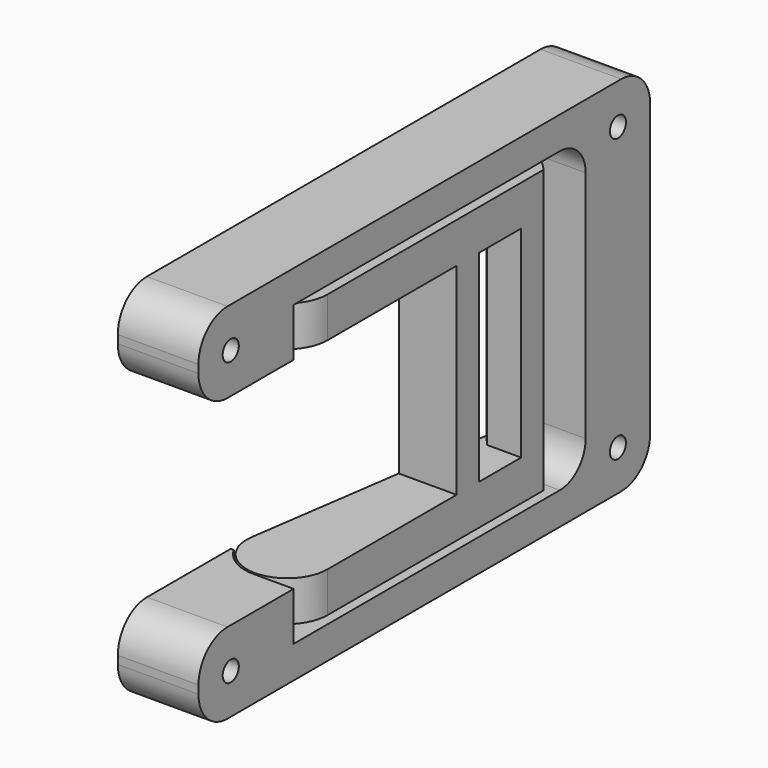
from build123d import *

# Parameters (mm, degrees)
PAD_DEPTH        = 17.5
SKETCH001_W      = 40
SKETCH001_H      = 25
SKETCH001_W_2    = 5
POCKET_DEPTH     = 10
CHAMFER_SIZE     = 1.5
PAD001_DEPTH     = 5
POCKET001_DEPTH  = 18.5
HOLE_D           = 2.5
HOLE_DEPTH       = 25
HOLE_CSINK_D     = 5
HOLE_CSINK_ANGLE = 90
FILLET_R         = 4.5
FILLET001_R      = 4


with BuildPart() as body:
    # Sketch → Pad (new body, symmetric)
    with BuildSketch(Plane.XY):
        with BuildLine():
            Line((5, 0), (5, 35))
            Line((5, 35), (0, 35))
            Line((0, 35), (-4.9487165931, 0.7142857143))
            ThreePointArc((-4.9487165931, 0.7142857143), (-0.3580621697, -4.9871626686), (5, 0))
        make_face()
    extrude(amount=PAD_DEPTH, both=True)

    # Sketch001 (on Face1 of Pad) → Pocket (cut, symmetric)
    with BuildSketch(Plane.YZ.offset(5)):
        Rectangle(SKETCH001_W, SKETCH001_H)
        with Locations((27.5, 0)):
            Rectangle(SKETCH001_W_2, SKETCH001_H)
    extrude(amount=POCKET_DEPTH, both=True, mode=Mode.SUBTRACT)

    # Chamfer
    chamfer_edges = [body.edges().sort_by_distance(p)[0] for p in [
        (5, 25, 0),
        (5, 35, 0),
        (0, 35, 0),
        (-0.721688, 30, 0),
    ]]
    chamfer(chamfer_edges, length=CHAMFER_SIZE)


with BuildPart() as body001:
    # Sketch002 → Pad001 (new body, symmetric)
    with BuildSketch(Plane.YZ):
        Polygon((0, 12.5), (-20, 12.5), (-20, 22.5), (50, 22.5), (50, -22.5), (-20, -22.5), (-20, -12.5), (0, -12.5), (0, -18.5), (40, -18.5), (40, 18.5), (0, 18.5), align=None)
    extrude(amount=PAD001_DEPTH, both=True)

    # Sketch003 → Pocket001 (cut, symmetric)
    with BuildSketch(Plane.XY):
        with BuildLine():
            ThreePointArc((-4.6165463282, -2.5), (-2.6867731575, -4.5104046382), (0, -5.25))
            Line((5, -5.25), (0, -5.25))
            Line((5, -5.25), (5, 5))
            Line((5, 5), (-5, 5))
            Line((-5, 5), (-5, -2.5))
            Line((-5, -2.5), (-4.6165463282, -2.5))
        make_face()
    extrude(amount=POCKET001_DEPTH, both=True, mode=Mode.SUBTRACT)

    # Hole
    with Locations(Plane(origin=(-5, 0, 0), x_dir=(0, 1, 0), z_dir=(-1, 0, 0))):
        with Locations((45, 17.5), (45, -17.5), (-15, 17.5), (-15, -17.5)):
            CounterSinkHole(HOLE_D / 2, HOLE_CSINK_D / 2, depth=HOLE_DEPTH, counter_sink_angle=HOLE_CSINK_ANGLE)

    # Fillet
    fillet_edges = [body001.edges().sort_by_distance(p)[0] for p in [
        (0, -20, -22.5),
        (0, -20, -12.5),
        (0, -20, 12.5),
        (0, -20, 22.5),
        (0, 50, 22.5),
        (0, 50, -22.5),
    ]]
    fillet(fillet_edges, radius=FILLET_R)

    # Fillet001
    fillet001_edges = [body001.edges().sort_by_distance(p)[0] for p in [
        (0, 40, -18.5),
        (0, 40, 18.5),
    ]]
    fillet(fillet001_edges, radius=FILLET001_R)


solid = Compound([body.part, body001.part])
